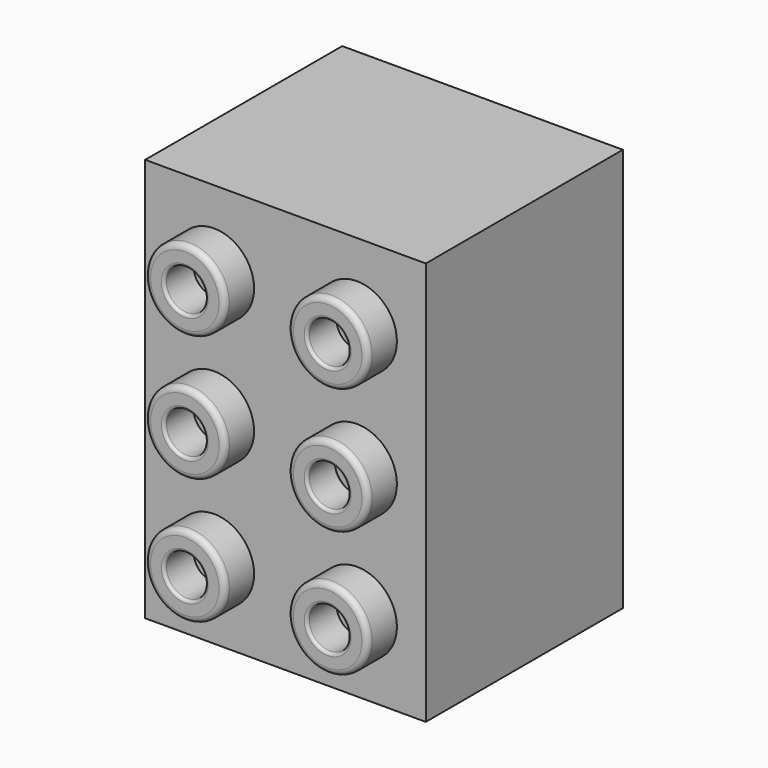
from build123d import *

# Parameters (mm, degrees)
F4_W     = 24.56
F4_H     = 21.55
F0_DEPTH = 35.32
F5_R     = 3.5
F5_R_2   = 1.8
F1_DEPTH = 3.2
F2_R     = 0.5
F3_R     = 0.25


with BuildPart() as f0:
    # F4 (on Top) → F0 (new body)
    with BuildSketch(Plane.XY):
        Rectangle(F4_W, F4_H)
    extrude(amount=F0_DEPTH)


with BuildPart() as f1:
    # F5 (on face) → F1 (new body)
    with BuildSketch(Plane.XZ.offset(10.775)):
        with Locations((-6.25, 28.5)):
            Circle(F5_R)
        with Locations((-6.25, 28.5)):
            Circle(F5_R_2, mode=Mode.SUBTRACT)
        with Locations((6.25, 28.5)):
            Circle(F5_R)
        with Locations((6.25, 28.5)):
            Circle(F5_R_2, mode=Mode.SUBTRACT)
        with Locations((6.25, 6.5)):
            Circle(F5_R)
        with Locations((6.25, 6.5)):
            Circle(F5_R_2, mode=Mode.SUBTRACT)
        with Locations((-6.25, 6.5)):
            Circle(F5_R)
        with Locations((-6.25, 6.5)):
            Circle(F5_R_2, mode=Mode.SUBTRACT)
        with Locations((-6.25, 17.5)):
            Circle(F5_R)
        with Locations((-6.25, 17.5)):
            Circle(F5_R_2, mode=Mode.SUBTRACT)
        with Locations((6.25, 17.5)):
            Circle(F5_R)
        with Locations((6.25, 17.5)):
            Circle(F5_R_2, mode=Mode.SUBTRACT)
    extrude(amount=F1_DEPTH)

    # F2
    f2_edges = [f1.edges().sort_by_distance(p)[0] for p in [
        (-9.75, -13.975, 28.5),
        (2.75, -13.975, 28.5),
        (-9.75, -13.975, 17.5),
        (2.75, -13.975, 17.5),
        (-9.75, -13.975, 6.5),
        (2.75, -13.975, 6.5),
    ]]
    fillet(f2_edges, radius=F2_R)

    # F3
    f3_edges = [f1.edges().sort_by_distance(p)[0] for p in [
        (-8.05, -13.975, 28.5),
        (4.45, -13.975, 28.5),
        (-8.05, -13.975, 17.5),
        (8.05, -12.375, 17.5),
        (4.45, -10.775, 17.5),
        (4.45, -13.975, 17.5),
        (-8.05, -13.975, 6.5),
        (4.45, -13.975, 6.5),
    ]]
    fillet(f3_edges, radius=F3_R)


solid = Compound([f0.part, f1.part])
